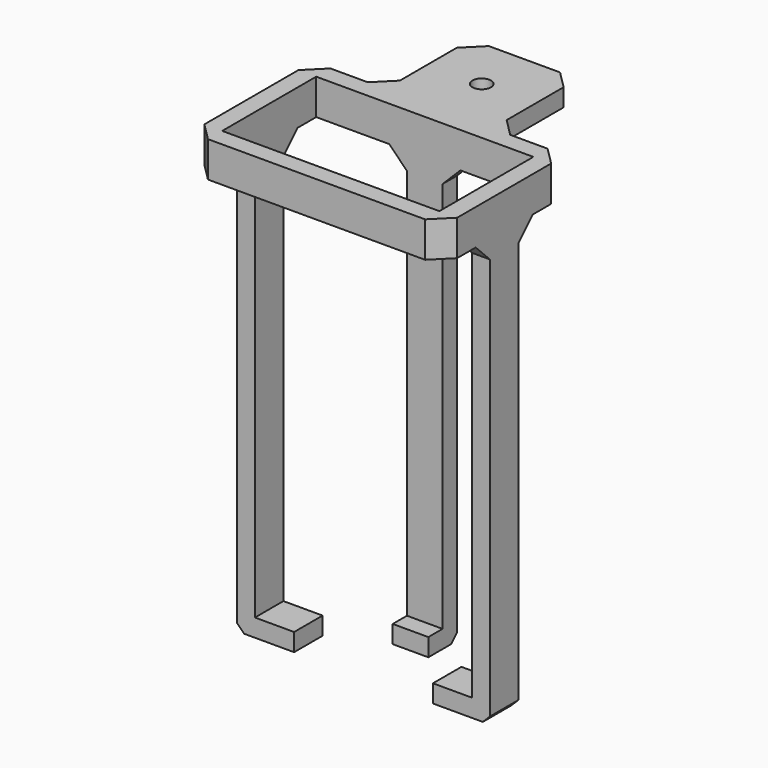
from build123d import *

# Parameters (mm, degrees)
SKETCH_W        = 71
SKETCH_H        = 43
SKETCH_W_2      = 61
SKETCH_H_2      = 33
PAD_DEPTH       = 10
SKETCH001_W     = 5
SKETCH001_H     = 10
SKETCH001_W_2   = 10
SKETCH001_H_2   = 5
PAD001_DEPTH    = 120
SKETCH002_W     = 10
SKETCH002_H     = 5
PAD002_DEPTH    = 5
SKETCH003_W     = 16
SKETCH003_H     = 10
PAD003_DEPTH    = 5
CHAMFER_SIZE    = 5
SKETCH004_W     = 30
SKETCH004_H     = 30
SKETCH004_R     = 2.6
PAD004_DEPTH    = 5
CHAMFER001_SIZE = 5
CHAMFER002_SIZE = 2


with BuildPart() as part:
    # Sketch → Pad (new body)
    with BuildSketch(Plane.XY):
        Rectangle(SKETCH_W, SKETCH_H)
        Rectangle(SKETCH_W_2, SKETCH_H_2, mode=Mode.SUBTRACT)
    extrude(amount=PAD_DEPTH)

    # Sketch001 (on Face9 of Pad) → Pad001 (join)
    with BuildSketch(Plane(origin=(0, 0, 0), x_dir=(1, 0, 0), z_dir=(0, 0, -1))):
        with Locations((-33, 0)):
            Rectangle(SKETCH001_W, SKETCH001_H)
        with Locations((33, 0)):
            Rectangle(SKETCH001_W, SKETCH001_H)
        with Locations((0, -19)):
            Rectangle(SKETCH001_W_2, SKETCH001_H_2)
    extrude(amount=PAD001_DEPTH)

    # Sketch002 (on Face21 of Pad001) → Pad002 (join)
    with BuildSketch(Plane.XZ.offset(-16.5)):
        with Locations((0, -117.5)):
            Rectangle(SKETCH002_W, SKETCH002_H)
    extrude(amount=PAD002_DEPTH)

    # Sketch003 (on Face7 of Pad002) → Pad003 (join)
    with BuildSketch(Plane(origin=(0, 0, -120), x_dir=(1, 0, 0), z_dir=(0, 0, -1))):
        with Locations((-27.5, 0)):
            Rectangle(SKETCH003_W, SKETCH003_H)
        with Locations((27.5, 0)):
            Rectangle(SKETCH003_W, SKETCH003_H)
    extrude(amount=-PAD003_DEPTH)

    # Chamfer
    chamfer_edges = [part.edges().sort_by_distance(p)[0] for p in [
        (-5, 19, 0),
        (-33, 5, 0),
        (5, 19, 0),
        (33, 5, 0),
        (33, -5, 0),
        (-33, -5, 0),
        (35.5, 21.5, 5),
        (35.5, -21.5, 5),
        (-35.5, 21.5, 5),
        (-35.5, -21.5, 5),
    ]]
    chamfer(chamfer_edges, length=CHAMFER_SIZE)

    # Sketch004 (on Face13 of Chamfer) → Pad004 (join)
    with BuildSketch(Plane.XY.offset(10)):
        with Locations((0, 36.5)):
            Rectangle(SKETCH004_W, SKETCH004_H)
        with Locations((0, 36.5)):
            Circle(SKETCH004_R, mode=Mode.SUBTRACT)
    extrude(amount=-PAD004_DEPTH)

    # Chamfer001
    chamfer001_edges = [part.edges().sort_by_distance(p)[0] for p in [
        (15, 21.5, 7.5),
        (-15, 21.5, 7.5),
        (-15, 51.5, 7.5),
        (15, 51.5, 7.5),
    ]]
    chamfer(chamfer001_edges, length=CHAMFER001_SIZE)

    # Chamfer002
    chamfer002_edges = [part.edges().sort_by_distance(p)[0] for p in [
        (35.5, 0, -120),
        (0, 21.5, -120),
        (-35.5, 0, -120),
    ]]
    chamfer(chamfer002_edges, length=CHAMFER002_SIZE)


solid = part.part
